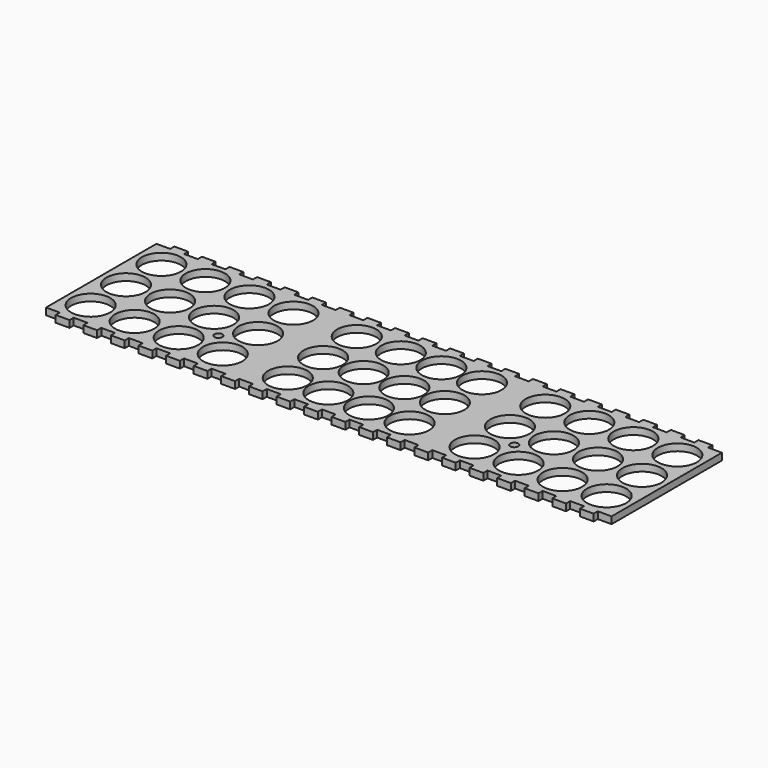
from build123d import *

# Parameters (mm, degrees)
F0_W     = 260.35
F0_H     = 68.2625
F1_DEPTH = 3.175
F2_W     = 6.35
F2_H     = 2.38125
F2_R     = 9.017
F2_R_2   = 1.8288
F3_DEPTH = 3.175


with BuildPart() as f1:
    # F0 (on Top) → F1 (new body)
    with BuildSketch(Plane.XY):
        with Locations((130.175, 34.13125)):
            Rectangle(F0_W, F0_H)
    extrude(amount=F1_DEPTH)

    # F2 (on face) → F3 (cut, through all)
    with BuildSketch(Plane.XY.offset(3.175)):
        with Locations((3.175, 1.190625)):
            Rectangle(F2_W, F2_H)
        with Locations((3.175, 67.071875)):
            Rectangle(F2_W, F2_H)
        with Locations((11.39825, 54.483)):
            Circle(F2_R)
        with Locations((31.668861, 54.483)):
            Circle(F2_R)
        with Locations((51.939472, 54.483)):
            Circle(F2_R)
        with Locations((72.210083, 54.483)):
            Circle(F2_R)
        with Locations((101.356583, 54.483)):
            Circle(F2_R)
        with Locations((121.627194, 54.483)):
            Circle(F2_R)
        with Locations((140.310306, 54.483)):
            Circle(F2_R)
        with Locations((158.993417, 54.483)):
            Circle(F2_R)
        with Locations((188.139917, 54.483)):
            Circle(F2_R)
        with Locations((208.410528, 54.483)):
            Circle(F2_R)
        with Locations((228.681139, 54.483)):
            Circle(F2_R)
        with Locations((248.95175, 54.483)):
            Circle(F2_R)
        with Locations((11.39825, 34.13125)):
            Circle(F2_R)
        with Locations((31.668861, 34.13125)):
            Circle(F2_R)
        with Locations((51.939472, 34.13125)):
            Circle(F2_R)
        with Locations((72.210083, 34.13125)):
            Circle(F2_R)
        with Locations((248.95175, 34.13125)):
            Circle(F2_R)
        with Locations((228.681139, 34.13125)):
            Circle(F2_R)
        with Locations((208.410528, 34.13125)):
            Circle(F2_R)
        with Locations((188.139917, 34.13125)):
            Circle(F2_R)
        with Locations((102.150333, 34.13125)):
            Circle(F2_R)
        with Locations((120.833444, 34.13125)):
            Circle(F2_R)
        with Locations((139.516556, 34.13125)):
            Circle(F2_R)
        with Locations((158.199667, 34.13125)):
            Circle(F2_R)
        with Locations((11.39825, 13.7795)):
            Circle(F2_R)
        with Locations((248.95175, 13.7795)):
            Circle(F2_R)
        with Locations((228.681139, 13.7795)):
            Circle(F2_R)
        with Locations((208.410528, 13.7795)):
            Circle(F2_R)
        with Locations((188.139917, 13.7795)):
            Circle(F2_R)
        with Locations((31.668861, 13.7795)):
            Circle(F2_R)
        with Locations((51.939472, 13.7795)):
            Circle(F2_R)
        with Locations((72.210083, 13.7795)):
            Circle(F2_R)
        with Locations((102.150333, 13.7795)):
            Circle(F2_R)
        with Locations((120.833444, 13.7795)):
            Circle(F2_R)
        with Locations((139.516556, 13.7795)):
            Circle(F2_R)
        with Locations((158.199667, 13.7795)):
            Circle(F2_R)
        with Locations((15.875, 67.071875)):
            Rectangle(F2_W, F2_H)
        with Locations((15.875, 1.190625)):
            Rectangle(F2_W, F2_H)
        with Locations((28.575, 1.190625)):
            Rectangle(F2_W, F2_H)
        with Locations((41.275, 1.190625)):
            Rectangle(F2_W, F2_H)
        with Locations((53.975, 1.190625)):
            Rectangle(F2_W, F2_H)
        with Locations((66.675, 1.190625)):
            Rectangle(F2_W, F2_H)
        with Locations((79.375, 1.190625)):
            Rectangle(F2_W, F2_H)
        with Locations((92.075, 1.190625)):
            Rectangle(F2_W, F2_H)
        with Locations((104.775, 1.190625)):
            Rectangle(F2_W, F2_H)
        with Locations((117.475, 1.190625)):
            Rectangle(F2_W, F2_H)
        with Locations((130.175, 1.190625)):
            Rectangle(F2_W, F2_H)
        with Locations((142.875, 1.190625)):
            Rectangle(F2_W, F2_H)
        with Locations((155.575, 1.190625)):
            Rectangle(F2_W, F2_H)
        with Locations((168.275, 1.190625)):
            Rectangle(F2_W, F2_H)
        with Locations((180.975, 1.190625)):
            Rectangle(F2_W, F2_H)
        with Locations((193.675, 1.190625)):
            Rectangle(F2_W, F2_H)
        with Locations((206.375, 1.190625)):
            Rectangle(F2_W, F2_H)
        with Locations((219.075, 1.190625)):
            Rectangle(F2_W, F2_H)
        with Locations((231.775, 1.190625)):
            Rectangle(F2_W, F2_H)
        with Locations((244.475, 1.190625)):
            Rectangle(F2_W, F2_H)
        with Locations((257.175, 1.190625)):
            Rectangle(F2_W, F2_H)
        with Locations((269.875, 1.190625)):
            Rectangle(F2_W, F2_H)
        with Locations((282.575, 1.190625)):
            Rectangle(F2_W, F2_H)
        with Locations((28.575, 67.071875)):
            Rectangle(F2_W, F2_H)
        with Locations((41.275, 67.071875)):
            Rectangle(F2_W, F2_H)
        with Locations((53.975, 67.071875)):
            Rectangle(F2_W, F2_H)
        with Locations((66.675, 67.071875)):
            Rectangle(F2_W, F2_H)
        with Locations((79.375, 67.071875)):
            Rectangle(F2_W, F2_H)
        with Locations((92.075, 67.071875)):
            Rectangle(F2_W, F2_H)
        with Locations((104.775, 67.071875)):
            Rectangle(F2_W, F2_H)
        with Locations((117.475, 67.071875)):
            Rectangle(F2_W, F2_H)
        with Locations((130.175, 67.071875)):
            Rectangle(F2_W, F2_H)
        with Locations((142.875, 67.071875)):
            Rectangle(F2_W, F2_H)
        with Locations((155.575, 67.071875)):
            Rectangle(F2_W, F2_H)
        with Locations((168.275, 67.071875)):
            Rectangle(F2_W, F2_H)
        with Locations((180.975, 67.071875)):
            Rectangle(F2_W, F2_H)
        with Locations((193.675, 67.071875)):
            Rectangle(F2_W, F2_H)
        with Locations((206.375, 67.071875)):
            Rectangle(F2_W, F2_H)
        with Locations((219.075, 67.071875)):
            Rectangle(F2_W, F2_H)
        with Locations((231.775, 67.071875)):
            Rectangle(F2_W, F2_H)
        with Locations((244.475, 67.071875)):
            Rectangle(F2_W, F2_H)
        with Locations((257.175, 67.071875)):
            Rectangle(F2_W, F2_H)
        with Locations((269.875, 67.071875)):
            Rectangle(F2_W, F2_H)
        with Locations((282.575, 67.071875)):
            Rectangle(F2_W, F2_H)
        with Locations((62.074778, 23.955375)):
            Circle(F2_R_2)
        with Locations((198.275222, 23.955375)):
            Circle(F2_R_2)
    extrude(amount=-F3_DEPTH, mode=Mode.SUBTRACT)


solid = f1.part
